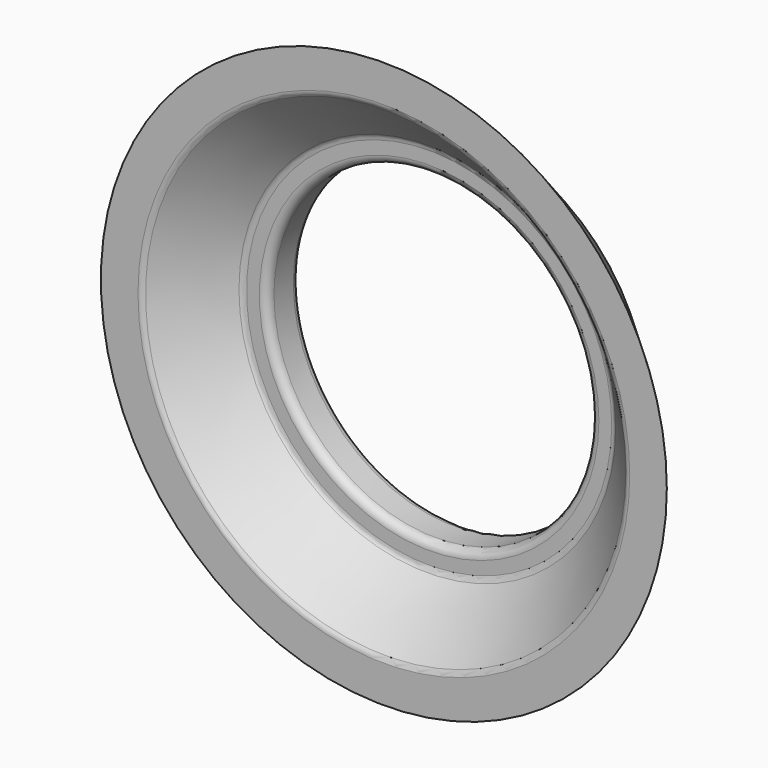
from build123d import *

# Parameters (mm, degrees)
FILLET_R = 1


with BuildPart() as part:
    # Sketch → Revolution (revolve)
    with BuildSketch(Plane.XY):
        Polygon((20, 7), (23, 7), (30, 0), (35, 0), (23, 12), (20, 12), align=None)
    revolve(axis=Axis((0, 0, 0), (0, 1, 0)))

    # Fillet
    fillet_edges = [part.edges().sort_by_distance(p)[0] for p in [
        (-30, 0, 0),
        (-23, 7, 0),
        (-20, 7, 0),
        (-23, 12, 0),
        (-20, 12, 0),
    ]]
    fillet(fillet_edges, radius=FILLET_R)


solid = part.part
